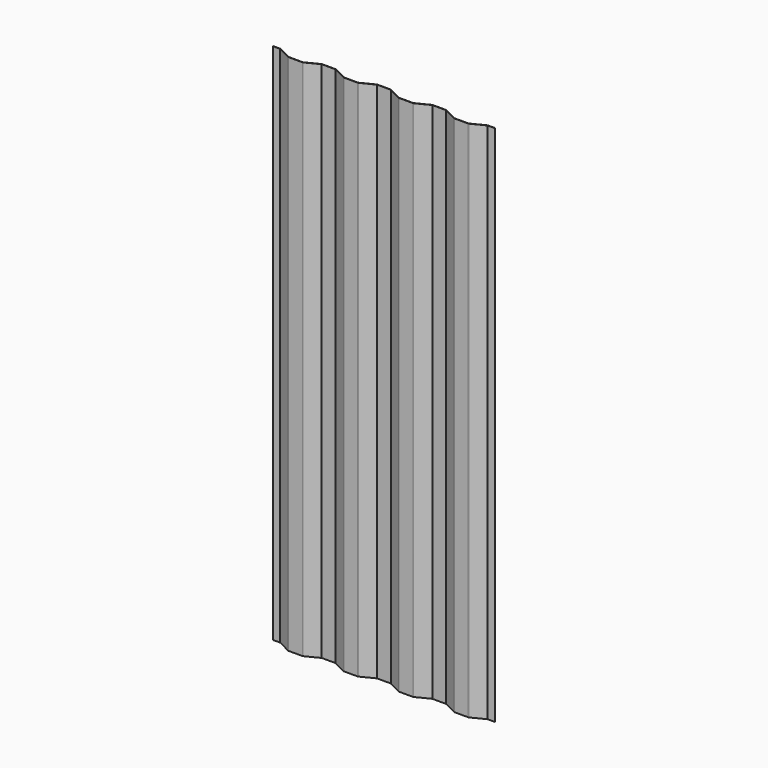
from build123d import *

# Parameters (mm, degrees)
F1_DEPTH = 2629


with BuildPart() as f1:
    # F0 (on Top) → F1 (new body)
    with BuildSketch(Plane.XY):
        with BuildLine():
            ThreePointArc((103.213446, 15.932448), (104.661294, 15.401879), (106.192738, 15.221745))
            Line((106.192738, 15.221745), (175.807262, 15.221745))
            ThreePointArc((175.807262, 15.221745), (177.338706, 15.401879), (178.786554, 15.932448))
            Line((178.786554, 15.932448), (245.381676, 49.621745))
            Line((245.381676, 49.621745), (314.618324, 49.621745))
            Line((314.618324, 49.621745), (381.213446, 15.932448))
            ThreePointArc((381.213446, 15.932448), (382.661294, 15.401879), (384.192738, 15.221745))
            Line((384.192738, 15.221745), (453.807262, 15.221745))
            ThreePointArc((453.807262, 15.221745), (455.338706, 15.401879), (456.786554, 15.932448))
            Line((456.786554, 15.932448), (523.381676, 49.621745))
            Line((523.381676, 49.621745), (592.618324, 49.621745))
            Line((592.618324, 49.621745), (659.213446, 15.932448))
            ThreePointArc((659.213446, 15.932448), (660.661294, 15.401879), (662.192738, 15.221745))
            Line((662.192738, 15.221745), (731.807262, 15.221745))
            ThreePointArc((731.807262, 15.221745), (733.338706, 15.401879), (734.786554, 15.932448))
            Line((734.786554, 15.932448), (801.381676, 49.621745))
            Line((801.381676, 49.621745), (870.618324, 49.621745))
            Line((870.618324, 49.621745), (937.213446, 15.932448))
            ThreePointArc((937.213446, 15.932448), (938.661294, 15.401879), (940.192738, 15.221745))
            Line((940.192738, 15.221745), (1009.807262, 15.221745))
            ThreePointArc((1009.807262, 15.221745), (1011.338706, 15.401879), (1012.786554, 15.932448))
            Line((1012.786554, 15.932448), (1079.381676, 49.621745))
            Line((1079.381676, 49.621745), (1116, 49.621745))
            Line((1116, 49.621745), (1116, 51.221745))
            Line((1116, 51.221745), (1080.192738, 51.221745))
            ThreePointArc((1080.192738, 51.221745), (1079.032553, 51.08528), (1077.935699, 50.683334))
            Line((1077.935699, 50.683334), (1012.064301, 17.360156))
            ThreePointArc((1012.064301, 17.360156), (1010.967447, 16.95821), (1009.807262, 16.821745))
            Line((1009.807262, 16.821745), (940.192738, 16.821745))
            ThreePointArc((940.192738, 16.821745), (939.032553, 16.95821), (937.935699, 17.360156))
            Line((937.935699, 17.360156), (872.064301, 50.683334))
            ThreePointArc((872.064301, 50.683334), (870.967447, 51.08528), (869.807262, 51.221745))
            Line((869.807262, 51.221745), (802.192738, 51.221745))
            ThreePointArc((802.192738, 51.221745), (801.032553, 51.08528), (799.935699, 50.683334))
            Line((799.935699, 50.683334), (734.064301, 17.360156))
            ThreePointArc((734.064301, 17.360156), (732.967447, 16.95821), (731.807262, 16.821745))
            Line((731.807262, 16.821745), (662.192738, 16.821745))
            ThreePointArc((662.192738, 16.821745), (661.032553, 16.95821), (659.935699, 17.360156))
            Line((659.935699, 17.360156), (594.064301, 50.683334))
            ThreePointArc((594.064301, 50.683334), (592.967447, 51.08528), (591.807262, 51.221745))
            Line((591.807262, 51.221745), (524.192738, 51.221745))
            ThreePointArc((524.192738, 51.221745), (523.032553, 51.08528), (521.935699, 50.683334))
            Line((521.935699, 50.683334), (456.064301, 17.360156))
            ThreePointArc((456.064301, 17.360156), (454.967447, 16.95821), (453.807262, 16.821745))
            Line((453.807262, 16.821745), (384.192738, 16.821745))
            ThreePointArc((384.192738, 16.821745), (383.032553, 16.95821), (381.935699, 17.360156))
            Line((381.935699, 17.360156), (316.064301, 50.683334))
            ThreePointArc((316.064301, 50.683334), (314.967447, 51.08528), (313.807262, 51.221745))
            Line((313.807262, 51.221745), (246.192738, 51.221745))
            ThreePointArc((246.192738, 51.221745), (245.032553, 51.08528), (243.935699, 50.683334))
            Line((243.935699, 50.683334), (178.064301, 17.360156))
            ThreePointArc((178.064301, 17.360156), (176.967447, 16.95821), (175.807262, 16.821745))
            Line((175.807262, 16.821745), (106.192738, 16.821745))
            ThreePointArc((106.192738, 16.821745), (105.032553, 16.95821), (103.935699, 17.360156))
            Line((103.935699, 17.360156), (38.064301, 50.683334))
            ThreePointArc((38.064301, 50.683334), (36.967447, 51.08528), (35.807262, 51.221745))
            Line((35.807262, 51.221745), (0, 51.221745))
            Line((0, 51.221745), (0, 49.621745))
            Line((0, 49.621745), (36.618324, 49.621745))
            Line((36.618324, 49.621745), (103.213446, 15.932448))
        make_face()
    extrude(amount=F1_DEPTH)


solid = f1.part
